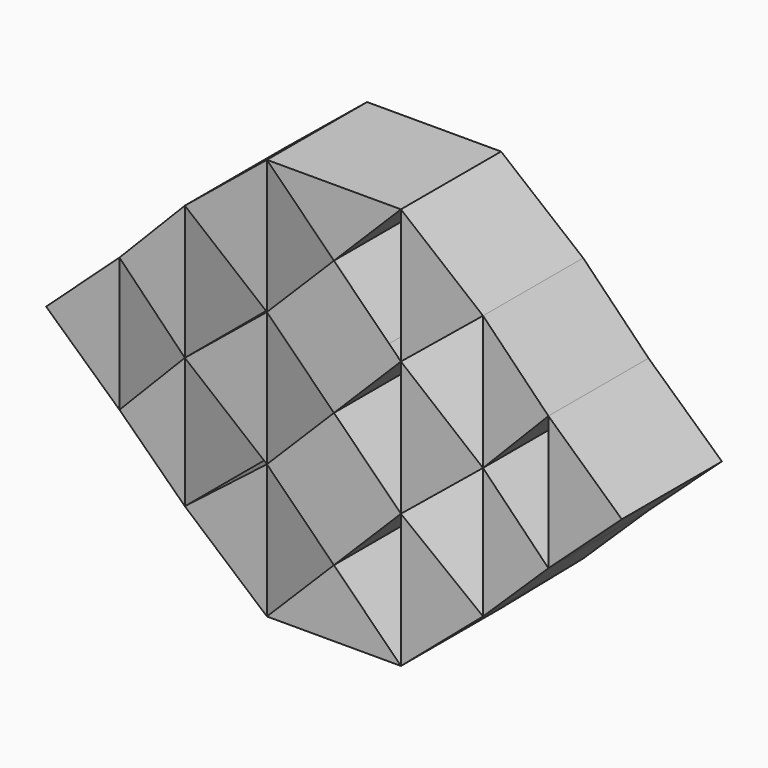
from build123d import *

# Parameters (mm, degrees)
F1_DEPTH = 38.1


with BuildPart() as f1:
    # F0 (on Front) → F1 (new body)
    with BuildSketch(Plane.XZ):
        Polygon((-65.284781, -5.06266), (-65.284781, 35.72736), (-87.622546, 15.33235), align=None)
        Polygon((-45.381104, 15.33235), (-45.381104, 56.122369), (-65.284781, 35.72736), align=None)
        Polygon((-45.381104, -24.439445), (-45.381104, 15.33235), (-65.284781, -5.06266), align=None)
        Polygon((-20.39501, -45.852679), (-20.39501, -5.06266), (-45.381104, -24.439445), align=None)
        Polygon((-20.39501, -5.06266), (-20.39501, 35.72736), (-45.381104, 15.33235), align=None)
        Polygon((-20.39501, 35.72736), (-20.39501, 76.517379), (-45.381104, 56.122369), align=None)
        Polygon((20.39501, 76.517379), (-20.39501, 76.517379), (-3.602338, 59.724707), (0, 56.122369), align=None)
        Polygon((0, 56.122369), (-20.39501, 35.72736), (0, 15.33235), (20.39501, 35.72736), (16.792672, 39.329697), align=None)
        Polygon((15.33235, 0), (0, 15.33235), (-20.39501, -5.06266), (0, -25.457669), (20.39501, -5.06266), align=None)
        Polygon((20.39501, -45.852679), (0, -25.457669), (-20.39501, -45.852679), align=None)
        Polygon((45.381104, -24.439445), (20.39501, -5.06266), (20.39501, -45.852679), align=None)
        Polygon((45.381104, 15.33235), (20.39501, 35.72736), (20.39501, -5.06266), align=None)
        Polygon((45.381104, 56.122369), (20.39501, 76.517379), (20.39501, 35.72736), align=None)
        Polygon((65.284781, 35.72736), (45.381104, 56.122369), (45.381104, 15.33235), align=None)
        Polygon((65.284781, -5.06266), (45.381104, 15.33235), (45.381104, -24.439445), align=None)
        Polygon((87.622546, 15.33235), (65.284781, 35.72736), (65.284781, -5.06266), align=None)
    extrude(amount=F1_DEPTH)


solid = f1.part
